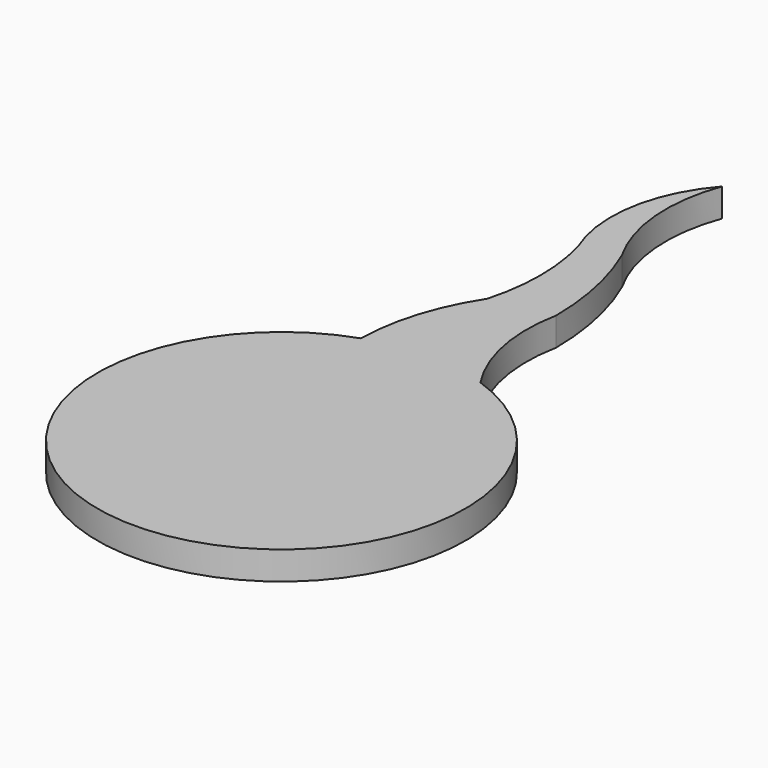
from build123d import *

# Parameters (mm, degrees)
F1_DEPTH = 25.4


with BuildPart() as f1:
    # F0 (on Top) → F1 (new body)
    with BuildSketch(Plane.XY):
        with BuildLine():
            ThreePointArc((-21.996325, 258.43516), (-45.011169, 209.49536), (-53.712161, 156.118589))
            ThreePointArc((-53.712161, 156.118589), (0.019787, -165.099999), (53.674739, 156.131459))
            ThreePointArc((53.674739, 156.131459), (31.519292, 210.209682), (31.633213, 268.650293))
            ThreePointArc((31.633213, 268.650293), (26.133603, 319.964007), (10.351655, 369.099259))
            ThreePointArc((10.351655, 369.099259), (-8.693203, 430.519765), (0, 494.23486))
            ThreePointArc((0, 494.23486), (-30.105052, 430.432012), (-21.996325, 360.350872))
            ThreePointArc((-21.996325, 360.350872), (-15.056041, 309.393016), (-21.996325, 258.43516))
        make_face()
    extrude(amount=F1_DEPTH)


solid = f1.part
